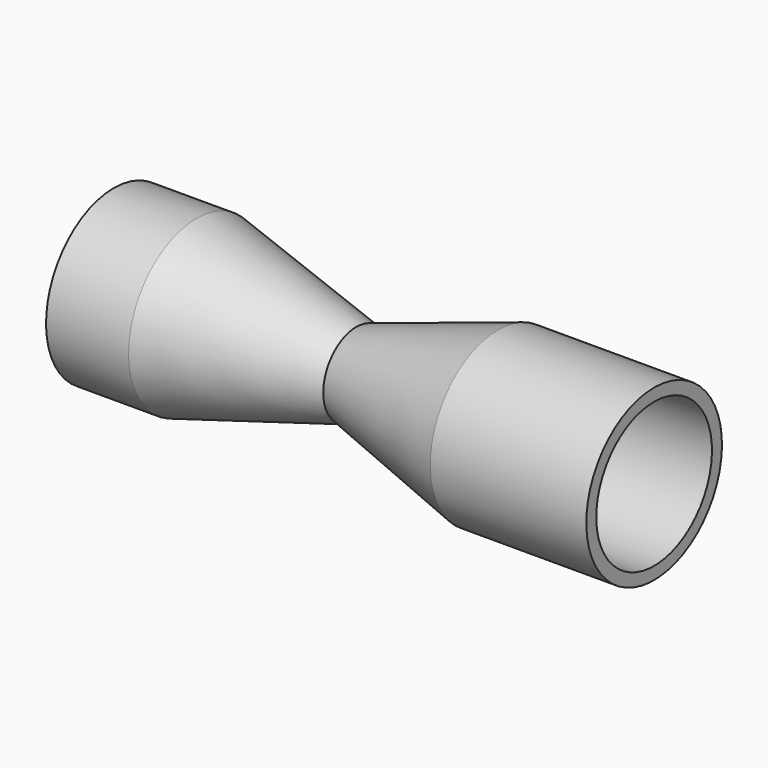
from build123d import *

# Parameters (mm, degrees)
F2_T = -2.54


with BuildPart() as f1:
    # F0 (on Front) → F1 (revolve)
    with BuildSketch(Plane.XZ):
        Polygon((0, 8.3979964256), (-32.5231477618, 17.2540657222), (-49.3191406131, 17.2540657222), (-25.4993699491, 0), (60.6182664633, 0), (60.6182664633, 17.2540657222), (28.8585666567, 17.2540657222), align=None)
    revolve(axis=Axis((17.5594482571, 0, 0), (-1, 0, 0)))

    # F2
    f2_openings = [f1.faces().sort_by_distance(p)[0] for p in [
        (60.618266, 0, 0),
    ]]
    offset(amount=F2_T, openings=f2_openings, kind=Kind.INTERSECTION)


solid = f1.part
